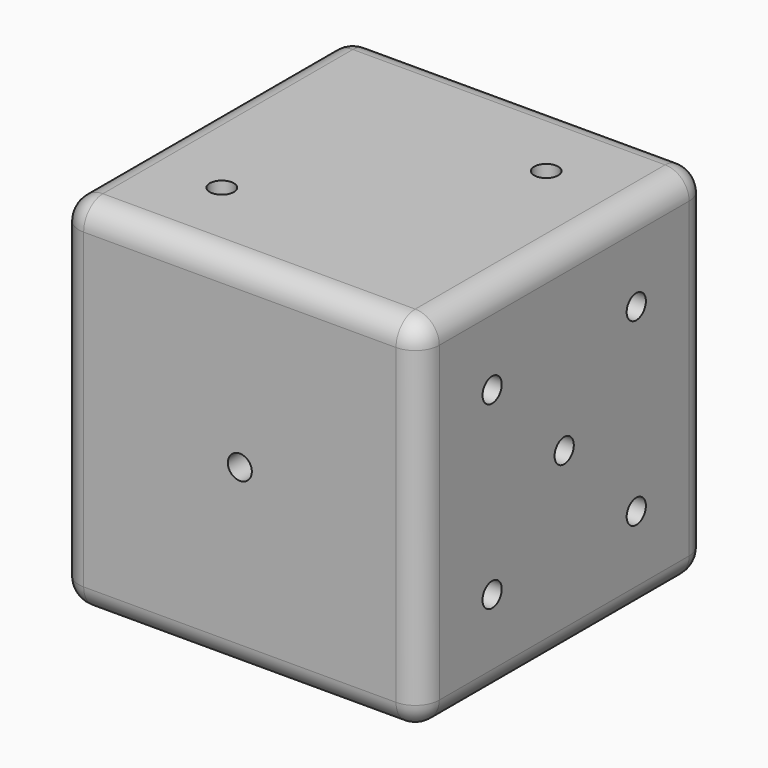
from build123d import *

# Parameters (mm, degrees)
F0_W      = 30
F0_H      = 30
F1_DEPTH  = 15
F2_DEPTH  = 15
F4_D      = 2
F4_DEPTH  = 2
F4_TIP    = 0.600860619
F7_D      = 2
F7_DEPTH  = 2
F7_TIP    = 0.600860619
F9_D      = 2
F9_DEPTH  = 2
F9_TIP    = 0.600860619
F11_D     = 2
F11_DEPTH = 2
F11_TIP   = 0.600860619
F13_R     = 2
F14_D     = 2
F14_DEPTH = 2
F14_TIP   = 0.600860619
F15_D     = 2
F15_DEPTH = 2
F15_TIP   = 0.600860619


with BuildPart() as f1:
    # F0 (on Front) → F1 (new body)
    with BuildSketch(Plane.XZ):
        Rectangle(F0_W, F0_H)
    extrude(amount=F1_DEPTH)

    # F2 (add): a face of the model
    f2_faces = [f1.faces().sort_by_distance(p)[0] for p in [
        (0, 0, 0),
    ]]
    extrude(f2_faces, amount=F2_DEPTH)

    # F4
    with Locations(Plane.XZ.offset(15)):
        with Locations((0, 0)):
            Hole(F4_D / 2, depth=F4_DEPTH)
            with Locations((0, 0, -(F4_DEPTH + F4_TIP / 2))):  # 118° drill point
                Cone(0, F4_D / 2, F4_TIP, mode=Mode.SUBTRACT)

    # F7
    with Locations(Plane.XY.offset(15)):
        with Locations((-7.5, -7.5), (7.5, 7.5)):
            Hole(F7_D / 2, depth=F7_DEPTH)
            with Locations((0, 0, -(F7_DEPTH + F7_TIP / 2))):  # 118° drill point
                Cone(0, F7_D / 2, F7_TIP, mode=Mode.SUBTRACT)

    # F9
    with Locations(Plane(origin=(0, 15, 0), x_dir=(-1, 0, 0), z_dir=(0, 1, 0))):
        with Locations((-7.5, 7.5), (-7.5, 0), (-7.5, -7.5), (7.5, -7.5), (7.5, 0), (7.5, 7.5)):
            Hole(F9_D / 2, depth=F9_DEPTH)
            with Locations((0, 0, -(F9_DEPTH + F9_TIP / 2))):  # 118° drill point
                Cone(0, F9_D / 2, F9_TIP, mode=Mode.SUBTRACT)

    # F11
    with Locations(Plane(origin=(0, 0, -15), x_dir=(1, 0, 0), z_dir=(0, 0, -1))):
        with Locations((7.5, -7.5), (0, 0), (-7.5, 7.5)):
            Hole(F11_D / 2, depth=F11_DEPTH)
            with Locations((0, 0, -(F11_DEPTH + F11_TIP / 2))):  # 118° drill point
                Cone(0, F11_D / 2, F11_TIP, mode=Mode.SUBTRACT)

    # F13
    f13_edges = [f1.edges().sort_by_distance(p)[0] for p in [
        (15, 0, 15),
        (0, -15, 15),
        (15, -15, 0),
        (15, 0, -15),
        (0, -15, -15),
        (-15, -15, 0),
        (-15, 0, -15),
        (-15, 0, 15),
        (-15, 15, 0),
        (0, 15, 15),
        (0, 15, -15),
        (15, 15, 0),
    ]]
    fillet(f13_edges, radius=F13_R)

    # F14
    with Locations(Plane.YZ.offset(15)):
        with Locations((-7.5, 7.5), (7.5, 7.5), (7.5, -7.5), (-7.5, -7.5), (0, 0)):
            Hole(F14_D / 2, depth=F14_DEPTH)
            with Locations((0, 0, -(F14_DEPTH + F14_TIP / 2))):  # 118° drill point
                Cone(0, F14_D / 2, F14_TIP, mode=Mode.SUBTRACT)

    # F15
    with Locations(Plane(origin=(-15, 0, 0), x_dir=(0, -1, 0), z_dir=(-1, 0, 0))):
        with Locations((7.5, -7.5), (-7.5, -7.5), (-7.5, 7.5), (7.5, 7.5)):
            Hole(F15_D / 2, depth=F15_DEPTH)
            with Locations((0, 0, -(F15_DEPTH + F15_TIP / 2))):  # 118° drill point
                Cone(0, F15_D / 2, F15_TIP, mode=Mode.SUBTRACT)


solid = f1.part
